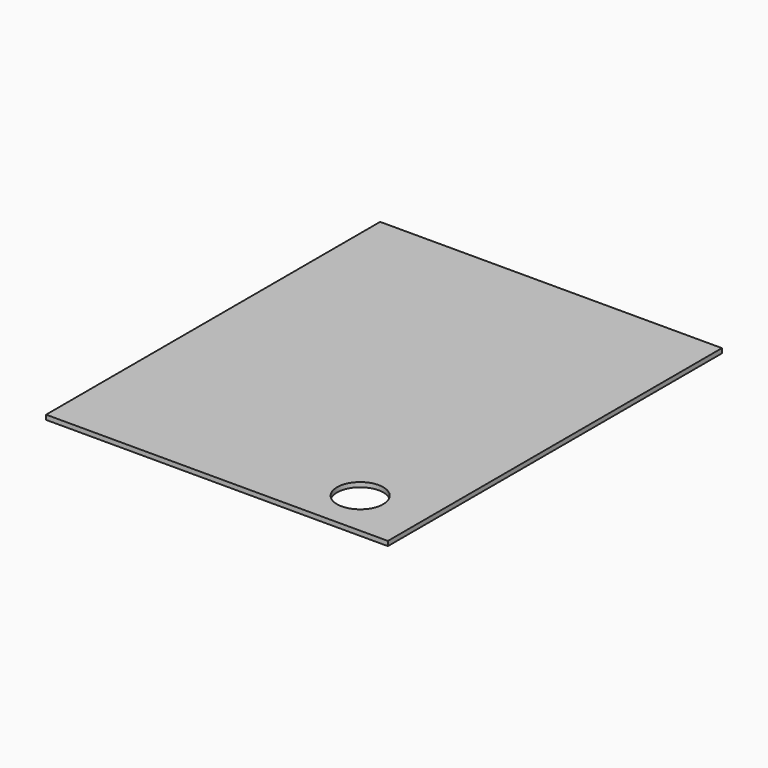
from build123d import *

# Parameters (mm, degrees)
PAD_DEPTH    = 5
SKETCH002_R  = 25
POCKET_DEPTH = 5.001


with BuildPart() as part:
    # Sketch → Pad (new body)
    with BuildSketch(Plane.XY):
        Polygon((0, 413.879036), (0, 452), (370, 452), (370, 0), (0, 0), align=None)
    extrude(amount=-PAD_DEPTH)

    # Sketch002 (on Face6 of Pad) → Pocket (cut, through all)
    with BuildSketch(Plane.XY):
        with Locations((300, 50)):
            Circle(SKETCH002_R)
    extrude(amount=-POCKET_DEPTH, mode=Mode.SUBTRACT)


solid = part.part
